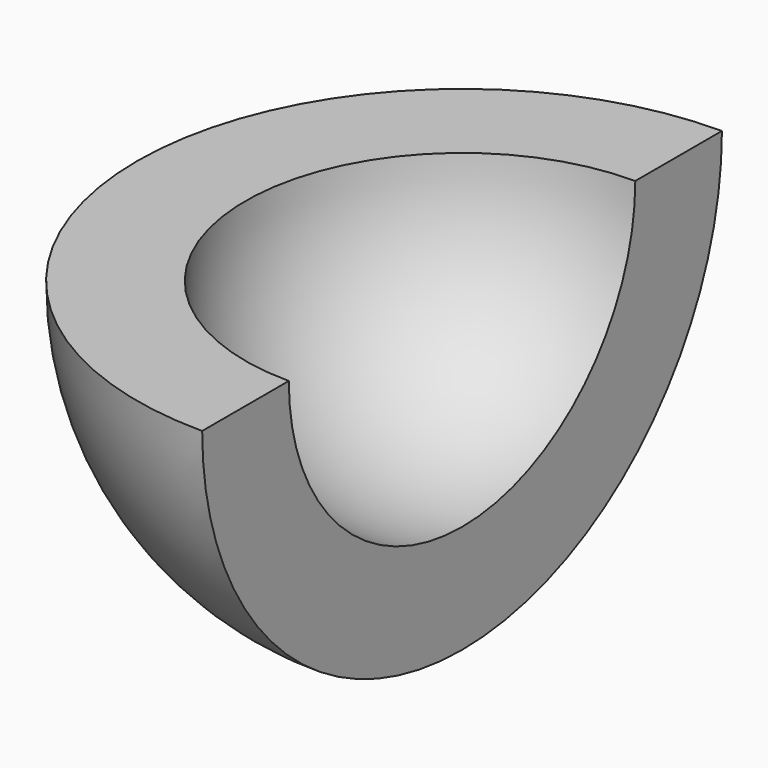
from build123d import *

# Parameters (mm, degrees)
F2_W     = 11.701234
F2_H     = 3.628718
F3_DEPTH = 12.5
F4_W     = 13.054848
F4_H     = 7.580234
F5_DEPTH = 25


with BuildPart() as f1:
    # F0 (on Front) → F1 (revolve)
    with BuildSketch(Plane.XZ):
        with BuildLine():
            Line((0, -2), (0, -3))
            ThreePointArc((0, -3), (3, 0), (0, 3))
            Line((0, 3), (0, 2))
            ThreePointArc((0, 2), (2, 0), (0, -2))
        make_face()
    revolve(axis=Axis((0, 0, 0), (0, 0, -1)))

    # F2 (on Front) → F3 (cut, symmetric)
    with BuildSketch(Plane.XZ):
        with Locations((0.668144, 1.814359)):
            Rectangle(F2_W, F2_H)
    extrude(amount=F3_DEPTH, both=True, mode=Mode.SUBTRACT)

    # F4 (on Right) → F5 (cut)
    with BuildSketch(Plane.YZ):
        with Locations((0.35008, -1.678151)):
            Rectangle(F4_W, F4_H)
    extrude(amount=F5_DEPTH, mode=Mode.SUBTRACT)


solid = f1.part
